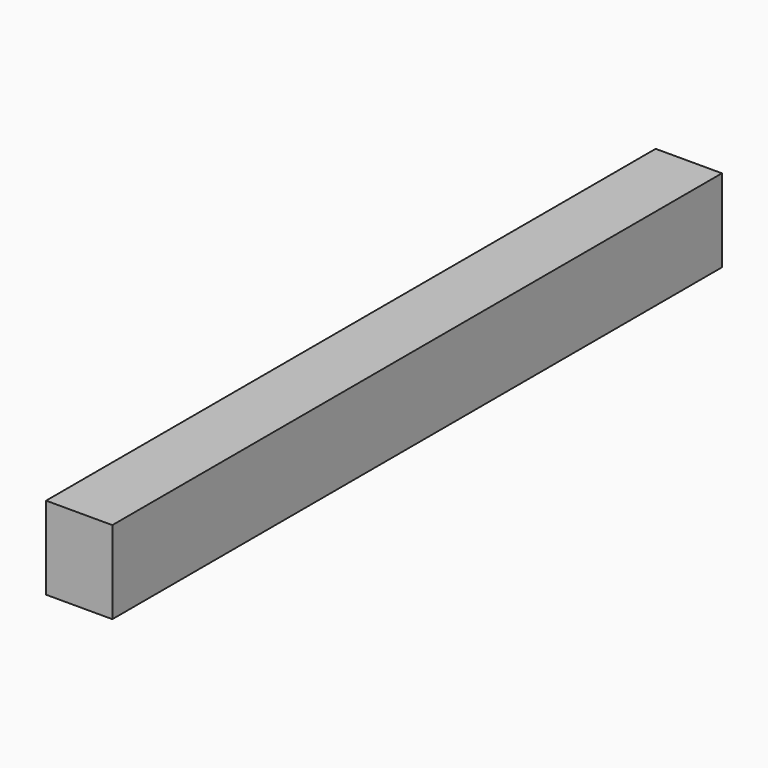
from build123d import *

# Parameters (mm, degrees)
F0_W     = 292.1
F0_H     = 31.75
F1_DEPTH = 20.32
F2_DEPTH = 5.08
F3_DEPTH = 25.4
F4_DEPTH = 25.4


with BuildPart() as f1:
    # F0 (on Right) → F1 (new body)
    with BuildSketch(Plane.YZ):
        Rectangle(F0_W, F0_H)
    extrude(amount=F1_DEPTH)

    # F2 (add): a face of the model
    f2_faces = [f1.faces().sort_by_distance(p)[0] for p in [
        (20.32, 0, 0),
    ]]
    extrude(f2_faces, amount=F2_DEPTH)

    # F3 (add): a face of the model
    f3_faces = [f1.faces().sort_by_distance(p)[0] for p in [
        (25.4, 0, 0),
    ]]
    extrude(f3_faces, amount=F3_DEPTH)

    # F4 (cut): a face of the model
    f4_faces = [f1.faces().sort_by_distance(p)[0] for p in [
        (50.8, 0, 0),
    ]]
    extrude(f4_faces, amount=-F4_DEPTH, mode=Mode.SUBTRACT)


solid = f1.part
